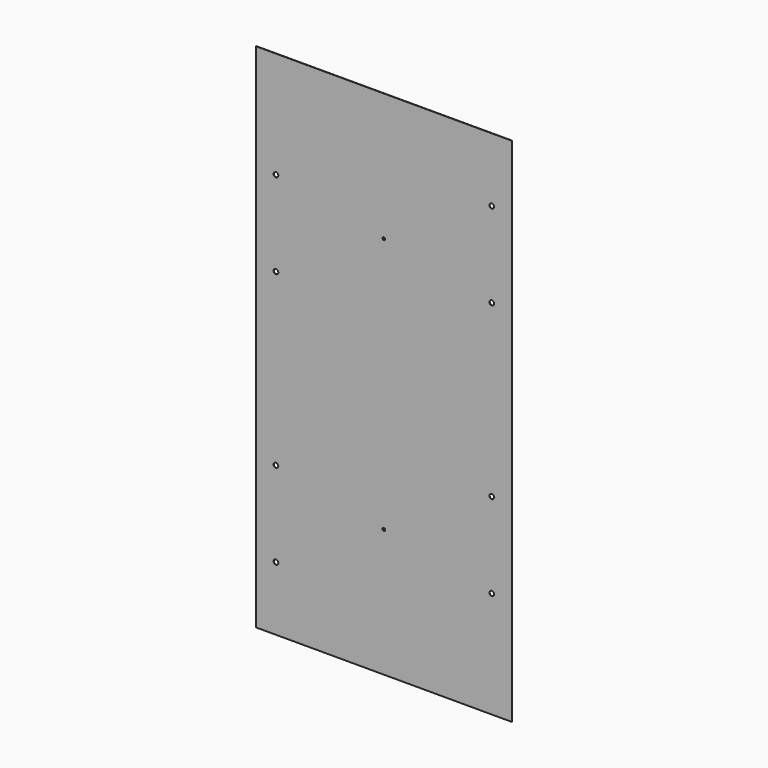
from build123d import *

# Parameters (mm, degrees)
F0_W     = 609.6
F0_H     = 1219.2
F1_DEPTH = 0.79375
F2_R     = 5.55625
F3_DEPTH = 25.4
F4_R     = 3.175
F5_DEPTH = 25.4


with BuildPart() as f1:
    # F0 (on Front) → F1 (new body)
    with BuildSketch(Plane.XZ):
        with Locations((304.8, 609.6)):
            Rectangle(F0_W, F0_H)
    extrude(amount=F1_DEPTH)

    # F2 (on face) → F3 (cut)
    with BuildSketch(Plane.XZ.offset(0.79375)):
        with Locations((47.625, 355.6)):
            Circle(F2_R)
        with Locations((47.625, 152.4)):
            Circle(F2_R)
        with Locations((561.975, 863.6)):
            Circle(F2_R)
        with Locations((561.975, 1066.8)):
            Circle(F2_R)
        with Locations((561.975, 254)):
            Circle(F2_R)
        with Locations((561.975, 457.2)):
            Circle(F2_R)
        with Locations((47.625, 965.2)):
            Circle(F2_R)
        with Locations((47.625, 762)):
            Circle(F2_R)
    extrude(amount=-F3_DEPTH, mode=Mode.SUBTRACT)

    # F4 (on face) → F5 (cut)
    with BuildSketch(Plane.XZ.offset(0.79375)):
        with Locations((304.8, 304.8)):
            Circle(F4_R)
        with Locations((304.8, 914.4)):
            Circle(F4_R)
    extrude(amount=-F5_DEPTH, mode=Mode.SUBTRACT)


solid = f1.part
